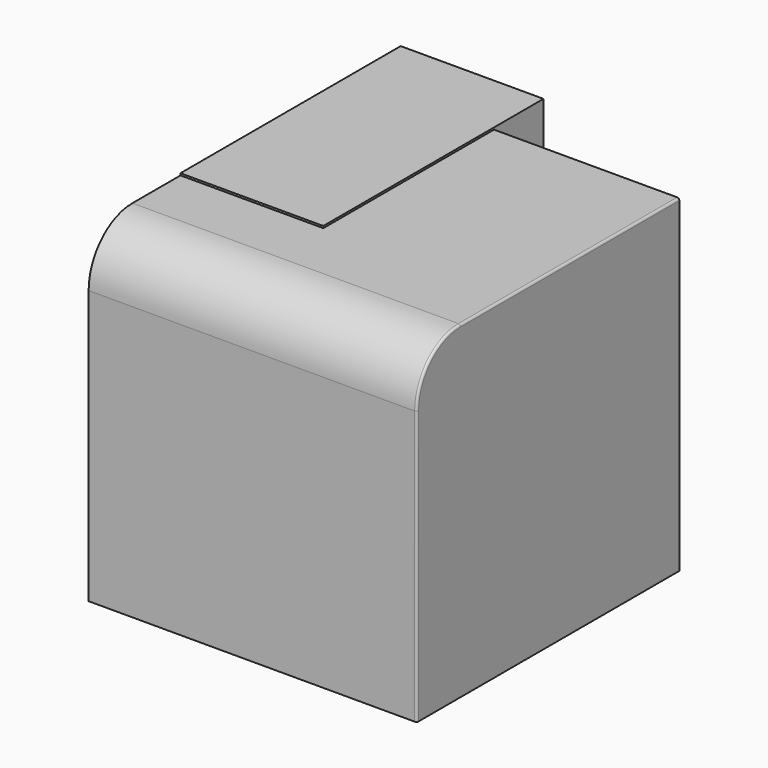
from build123d import *

# Parameters (mm, degrees)
F0_W     = 762
F0_H     = 762
F1_DEPTH = 762
F2_R     = 127
F4_DEPTH = 331.61172
F5_R     = 5.08


with BuildPart() as f1:
    # F0 (on Front) → F1 (new body)
    with BuildSketch(Plane.XZ):
        with Locations((-127, 127)):
            Rectangle(F0_W, F0_H)
    extrude(amount=F1_DEPTH)

    # F2
    f2_edges = [f1.edges().sort_by_distance(p)[0] for p in [
        (-127, -762, 508),
    ]]
    fillet(f2_edges, radius=F2_R)

    # F5
    f5_edges = [f1.edges().sort_by_distance(p)[0] for p in [
        (254, -762, 63.5),
    ]]
    fillet(f5_edges, radius=F5_R)


with BuildPart() as f4:
    # F3 (on face) → F4 (new body)
    with BuildSketch(Plane(origin=(-508, 0, 0), x_dir=(0, -1, 0), z_dir=(-1, 0, 0))):
        Polygon((495.499879, 512.591183), (-143.593878, 512.591183), (-143.593878, 172.306985), (0, 172.306985), (0, 508), (495.499879, 508), align=None)
    extrude(amount=-F4_DEPTH)


solid = Compound([f1.part, f4.part])
